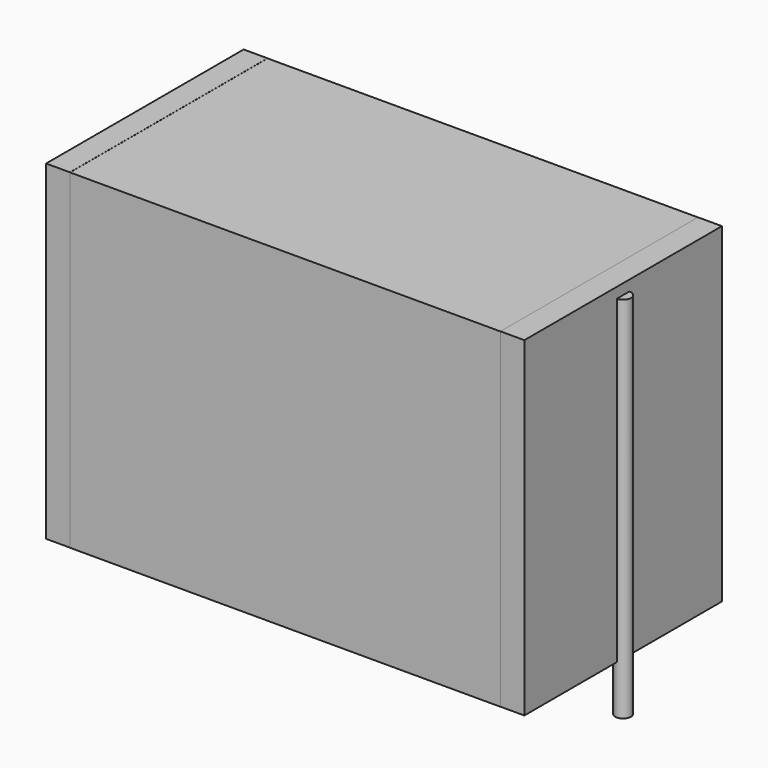
from build123d import *

# Parameters (mm, degrees)
SKETCH_W          = 24.75
SKETCH_H          = 14.2
PAD_DEPTH         = 19
SKETCH001_R       = 0.45
PAD001_DEPTH      = 18
PAD001_DEPTH_BACK = 3.2
SKETCH002_W       = 1.375
SKETCH002_H       = 14.2
PAD002_DEPTH      = 19


with BuildPart() as pad:
    # Sketch → Pad (new body)
    with BuildSketch(Plane.XY.offset(0.1)):
        with Locations((13.75, 0)):
            Rectangle(SKETCH_W, SKETCH_H)
    extrude(amount=PAD_DEPTH)


with BuildPart() as pad001:
    # Sketch001 → Pad001 (new body, two sides)
    with BuildSketch(Plane.XY.offset(0.5)) as pad001_sk:
        Circle(SKETCH001_R)
        with Locations((27.5, 0)):
            Circle(SKETCH001_R)
    extrude(amount=PAD001_DEPTH)
    extrude(pad001_sk.sketch, amount=-PAD001_DEPTH_BACK)


with BuildPart() as pad002:
    # Sketch002 → Pad002 (new body)
    with BuildSketch(Plane.XY.offset(0.105)):
        with Locations((0.6875, 0)):
            Rectangle(SKETCH002_W, SKETCH002_H)
        with Locations((26.8125, 0)):
            Rectangle(SKETCH002_W, SKETCH002_H)
    extrude(amount=PAD002_DEPTH)


solid = Compound([pad.part, pad001.part, pad002.part])
